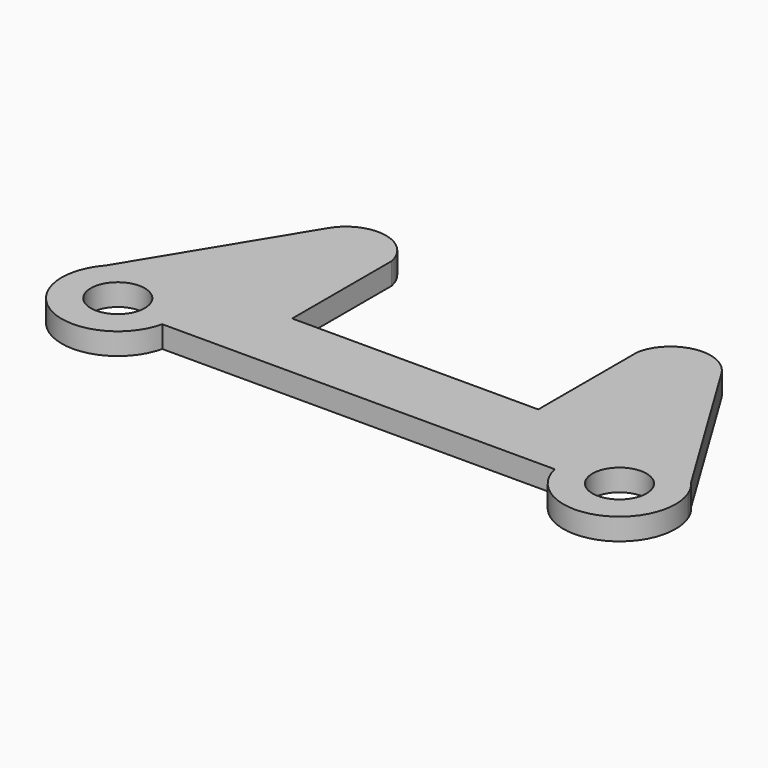
from build123d import *

# Parameters (mm, degrees)
F0_R     = 2.475
F1_DEPTH = 2


with BuildPart() as f1:
    # F0 (on Top) → F1 (new body)
    with BuildSketch(Plane.XY):
        with BuildLine():
            ThreePointArc((-11.28048, 3.837689), (-14.25743, 6.713427), (-18.025508, 5.000625))
            Line((-18.025508, 5.000625), (-26.854825, -9.504681))
            ThreePointArc((-26.854825, -9.504681), (-25.355263, -17.480133), (-17.990624, -14.071526))
            Line((-17.990624, -14.071526), (0, -14.071526))
            Line((0, -14.071526), (17.990624, -14.071526))
            ThreePointArc((17.990624, -14.071526), (24.515641, -17.822764), (27.794171, -11.047893))
            Line((27.794171, -11.047893), (26.854825, -9.504681))
            Line((26.854825, -9.504681), (18.025508, 5.000625))
            ThreePointArc((18.025508, 5.000625), (14.25743, 6.713427), (11.28048, 3.837689))
            Line((11.28048, 3.837689), (11.28048, -7.571526))
            Line((11.28048, -7.571526), (0, -7.571526))
            Line((0, -7.571526), (-11.28048, -7.571526))
            Line((-11.28048, -7.571526), (-11.28048, 3.837689))
        make_face()
        with Locations((-23, -12.90859)):
            Circle(F0_R, mode=Mode.SUBTRACT)
        with Locations((23, -12.90859)):
            Circle(F0_R, mode=Mode.SUBTRACT)
        with BuildLine():
            Line((26.854825, -9.504681), (27.794171, -11.047893))
            ThreePointArc((27.794171, -11.047893), (27.392796, -10.234714), (26.854825, -9.504681))
        make_face()
    extrude(amount=F1_DEPTH)


solid = f1.part
